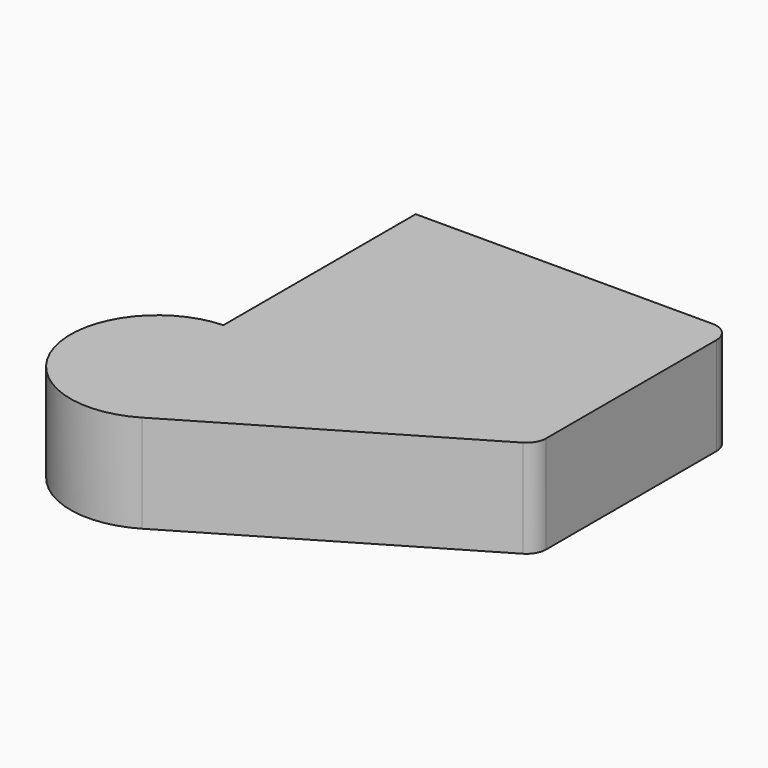
from build123d import *

# Parameters (mm, degrees)
F1_DEPTH = 25.4
F2_R     = 5.08
F3_R     = 5.08


with BuildPart() as f1:
    # F0 (on Top) → F1 (new body)
    with BuildSketch(Plane.XY):
        with BuildLine():
            Line((-36.114874, 41.076776), (-36.114874, -21.335141))
            ThreePointArc((-36.114874, -21.335141), (-56.840589, -50.317389), (-23.684892, -63.364446))
            Line((-23.684892, -63.364446), (46.034314, -22.190897))
            Line((46.034314, -22.190897), (46.034314, 41.076776))
            Line((46.034314, 41.076776), (-36.114874, 41.076776))
        make_face()
    extrude(amount=F1_DEPTH)

    # F2
    f2_edges = [f1.edges().sort_by_distance(p)[0] for p in [
        (46.034314, -22.190897, 12.7),
    ]]
    fillet(f2_edges, radius=F2_R)

    # F3
    f3_edges = [f1.edges().sort_by_distance(p)[0] for p in [
        (46.034314, 41.076776, 12.7),
    ]]
    fillet(f3_edges, radius=F3_R)


solid = f1.part
